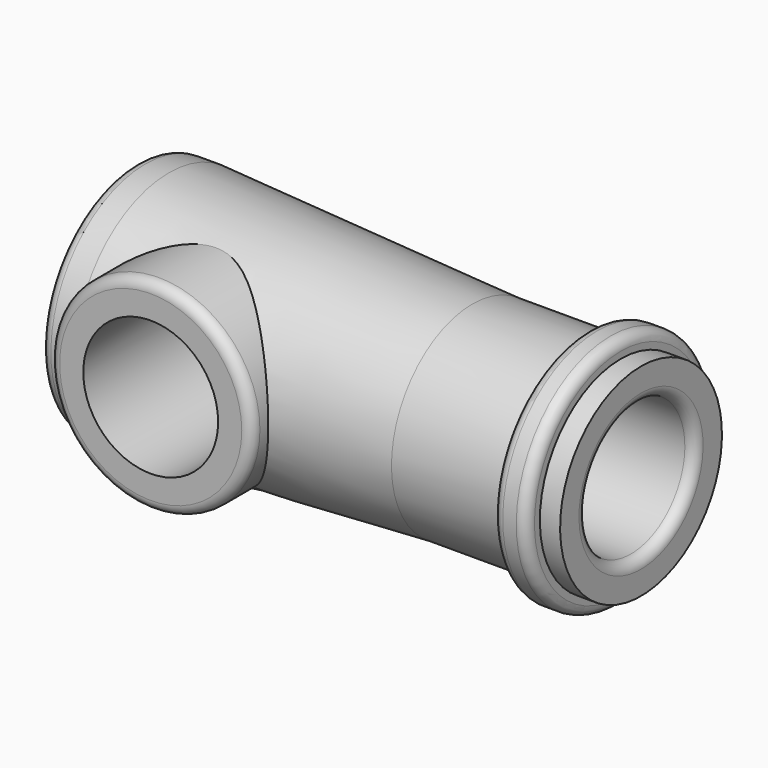
from build123d import *

# Parameters (mm, degrees)
F2_R     = 15
F3_DEPTH = 19
F4_R     = 10
F5_DEPTH = 25
F6_R     = 1.5


with BuildPart() as f1:
    # F0 (on Front) → F1 (revolve)
    with BuildSketch(Plane.XZ):
        Polygon((0, 17.5), (0, 0), (26.744785, 0), (26.744785, 10), (75, 10), (75, 15), (72, 15), (72, 17.5), (67, 17.5), (67, 15), (50, 15), (5, 17.5), align=None)
    revolve(axis=Axis((13.372393, 0, 0), (-1, 0, 0)))

    # F2 (on Front) → F3 (join)
    with BuildSketch(Plane.XZ):
        with Locations((17.5, 0)):
            Circle(F2_R)
    extrude(amount=F3_DEPTH)

    # F4 (on face) → F5 (cut)
    with BuildSketch(Plane.XZ.offset(19)):
        with Locations((17.5, 0)):
            Circle(F4_R)
    extrude(amount=-F5_DEPTH, mode=Mode.SUBTRACT)

    # F6
    f6_edges = [f1.edges().sort_by_distance(p)[0] for p in [
        (2.5, -19, 0),
        (0, 0, -17.5),
        (67, 0, -17.5),
        (72, 0, -17.5),
        (75, 0, -10),
    ]]
    fillet(f6_edges, radius=F6_R)


solid = f1.part
